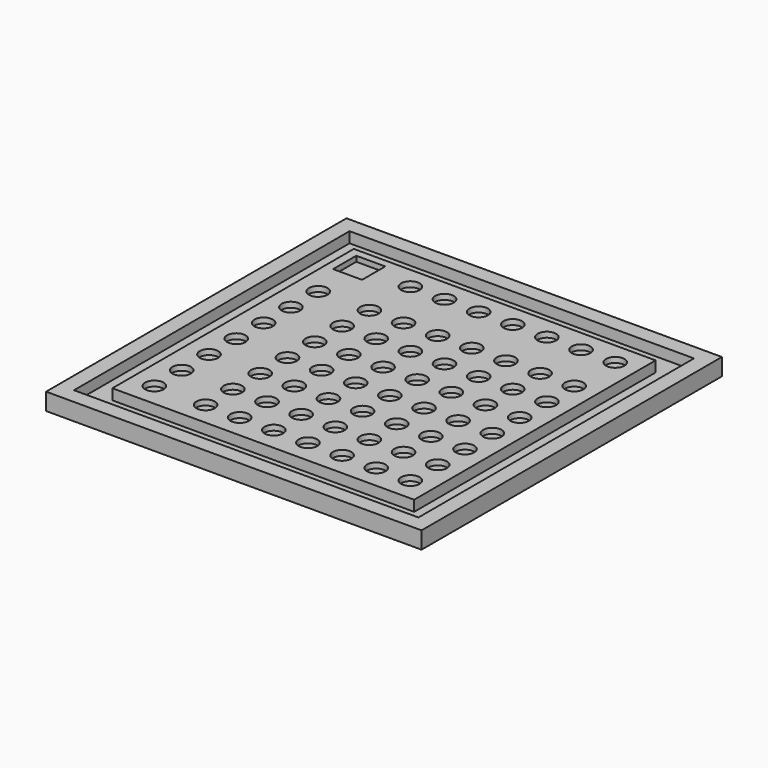
from build123d import *

# Parameters (mm, degrees)
F0_W     = 279.4
F0_H     = 279.4
F1_DEPTH = 12.7
F2_R     = 6.874077
F2_W     = 21.59
F2_H     = 21.59
F3_DEPTH = 3.96875
F4_W     = 256.317572
F4_H     = 256.317572
F4_W_2   = 224.567598
F4_H_2   = 224.567598
F5_DEPTH = 7.9375


with BuildPart() as f1:
    # F0 (on Top) → F1 (new body)
    with BuildSketch(Plane.XY):
        Rectangle(F0_W, F0_H)
    extrude(amount=-F1_DEPTH)

    # F2 (on Top) → F3 (cut)
    with BuildSketch(Plane.XY):
        with Locations((-56.914803, -94.826)):
            Circle(F2_R)
        with Locations((-56.914803, -69.426)):
            Circle(F2_R)
        with Locations((-56.914803, -44.026)):
            Circle(F2_R)
        with Locations((-56.914803, -18.626)):
            Circle(F2_R)
        with Locations((-56.914803, 6.774)):
            Circle(F2_R)
        with Locations((-56.914803, 32.174)):
            Circle(F2_R)
        with Locations((-56.914803, 57.574)):
            Circle(F2_R)
        with Locations((-31.514803, -94.826)):
            Circle(F2_R)
        with Locations((-31.514803, -69.426)):
            Circle(F2_R)
        with Locations((-31.514803, -44.026)):
            Circle(F2_R)
        with Locations((-31.514803, -18.626)):
            Circle(F2_R)
        with Locations((-31.514803, 6.774)):
            Circle(F2_R)
        with Locations((-31.514803, 32.174)):
            Circle(F2_R)
        with Locations((-31.514803, 57.574)):
            Circle(F2_R)
        with Locations((-6.114803, -94.826)):
            Circle(F2_R)
        with Locations((-6.114803, -69.426)):
            Circle(F2_R)
        with Locations((-6.114803, -44.026)):
            Circle(F2_R)
        with Locations((-6.114803, -18.626)):
            Circle(F2_R)
        with Locations((-6.114803, 6.774)):
            Circle(F2_R)
        with Locations((-6.114803, 32.174)):
            Circle(F2_R)
        with Locations((-6.114803, 57.574)):
            Circle(F2_R)
        with Locations((19.285197, -94.826)):
            Circle(F2_R)
        with Locations((19.285197, -69.426)):
            Circle(F2_R)
        with Locations((19.285197, -44.026)):
            Circle(F2_R)
        with Locations((19.285197, -18.626)):
            Circle(F2_R)
        with Locations((19.285197, 6.774)):
            Circle(F2_R)
        with Locations((19.285197, 32.174)):
            Circle(F2_R)
        with Locations((19.285197, 57.574)):
            Circle(F2_R)
        with Locations((44.685197, -94.826)):
            Circle(F2_R)
        with Locations((44.685197, -69.426)):
            Circle(F2_R)
        with Locations((44.685197, -44.026)):
            Circle(F2_R)
        with Locations((44.685197, -18.626)):
            Circle(F2_R)
        with Locations((44.685197, 6.774)):
            Circle(F2_R)
        with Locations((44.685197, 32.174)):
            Circle(F2_R)
        with Locations((44.685197, 57.574)):
            Circle(F2_R)
        with Locations((70.085197, -94.826)):
            Circle(F2_R)
        with Locations((70.085197, -69.426)):
            Circle(F2_R)
        with Locations((70.085197, -44.026)):
            Circle(F2_R)
        with Locations((70.085197, -18.626)):
            Circle(F2_R)
        with Locations((70.085197, 6.774)):
            Circle(F2_R)
        with Locations((70.085197, 32.174)):
            Circle(F2_R)
        with Locations((70.085197, 57.574)):
            Circle(F2_R)
        with Locations((95.485197, -94.826)):
            Circle(F2_R)
        with Locations((95.485197, -69.426)):
            Circle(F2_R)
        with Locations((95.485197, -44.026)):
            Circle(F2_R)
        with Locations((95.485197, -18.626)):
            Circle(F2_R)
        with Locations((95.485197, 6.774)):
            Circle(F2_R)
        with Locations((95.485197, 32.174)):
            Circle(F2_R)
        with Locations((95.485197, 57.574)):
            Circle(F2_R)
        with Locations((-95.014803, -94.826)):
            Circle(F2_R)
        with Locations((95.485197, 95.674)):
            Circle(F2_R)
        with Locations((70.085197, 95.674)):
            Circle(F2_R)
        with Locations((44.685197, 95.674)):
            Circle(F2_R)
        with Locations((19.285197, 95.674)):
            Circle(F2_R)
        with Locations((-6.114803, 95.674)):
            Circle(F2_R)
        with Locations((-31.514803, 95.674)):
            Circle(F2_R)
        with Locations((-56.914803, 95.674)):
            Circle(F2_R)
        with Locations((-95.014803, -69.426)):
            Circle(F2_R)
        with Locations((-95.014803, -44.026)):
            Circle(F2_R)
        with Locations((-95.014803, -18.626)):
            Circle(F2_R)
        with Locations((-95.014803, 6.774)):
            Circle(F2_R)
        with Locations((-95.014803, 32.174)):
            Circle(F2_R)
        with Locations((-95.014803, 57.574)):
            Circle(F2_R)
        with Locations((-95.014803, 95.674)):
            Rectangle(F2_W, F2_H)
    extrude(amount=-F3_DEPTH, mode=Mode.SUBTRACT)

    # F4 (on Top) → F5 (cut)
    with BuildSketch(Plane.XY):
        Rectangle(F4_W, F4_H)
        Rectangle(F4_W_2, F4_H_2, mode=Mode.SUBTRACT)
    extrude(amount=-F5_DEPTH, mode=Mode.SUBTRACT)


solid = f1.part
